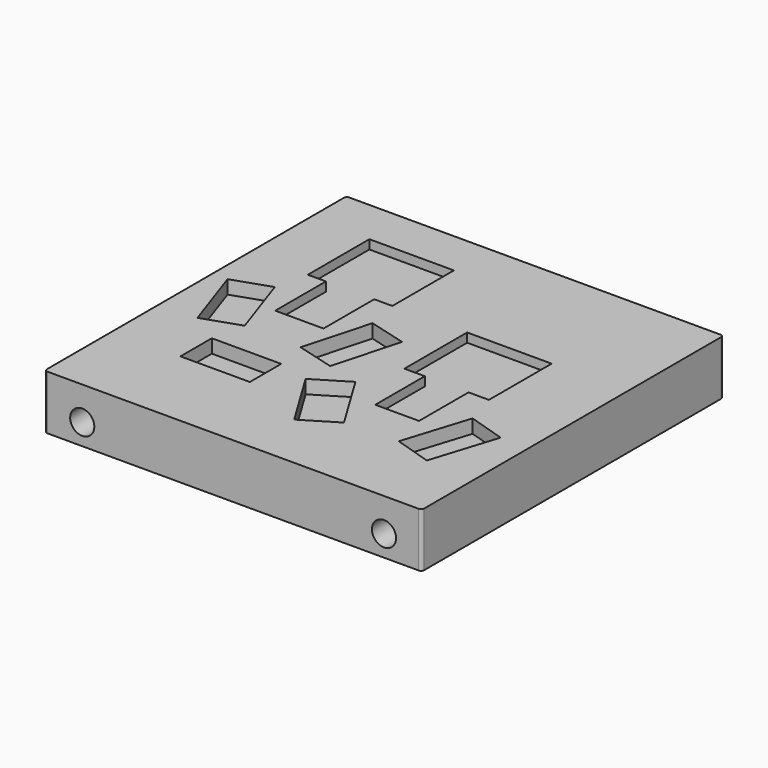
from build123d import *

# Parameters (mm, degrees)
F0_W      = 25
F0_H      = 25
F1_DEPTH  = 3.6
F3_DEPTH  = 0.6
F4_W      = 4.6
F4_H      = 2.6
F5_DEPTH  = 0.9
F6_R      = 1.6
F7_DEPTH  = 1.2
F8_R      = 0.2
F9_R      = 0.8
F10_DEPTH = 8


with BuildPart() as f1:
    # F0 (on Top) → F1 (new body)
    with BuildSketch(Plane.XY):
        Rectangle(F0_W, F0_H)
    extrude(amount=F1_DEPTH)

    # F2 (on face) → F3 (cut)
    with BuildSketch(Plane.XY.offset(3.6)):
        Polygon((-2.968572, 9.5), (-8.568572, 9.5), (-8.568572, 4.4), (-7.368572, 4.4), (-7.368572, 0.2), (-4.168572, 0.2), (-4.168572, 4.4), (-2.968572, 4.4), align=None)
        Polygon((7.511108, 4.5), (1.911108, 4.5), (1.911108, -0.7), (3.261108, -0.7), (3.261108, -4.8), (6.161108, -4.8), (6.161108, -0.7), (7.511108, -0.7), align=None)
    extrude(amount=-F3_DEPTH, mode=Mode.SUBTRACT)

    # F4 (on face) → F5 (cut)
    with BuildSketch(Plane.XY.offset(3.6)):
        Polygon((-7.552263, -2.098206), (-9.040832, 2.254283), (-11.500935, 1.412918), (-10.012366, -2.939571), align=None)
        Polygon((-0.058017, 1.566966), (-2.565525, 2.254283), (-3.781548, -2.182077), (-1.27404, -2.869394), align=None)
        Polygon((0.855684, -3.437364), (-1.366318, -4.78744), (1.02228, -8.718675), (3.244282, -7.368598), align=None)
        Polygon((10.624292, -3.622611), (8.143836, -2.843295), (6.765044, -7.231795), (9.245501, -8.011112), align=None)
        with Locations((-5.702388, -5.56096)):
            Rectangle(F4_W, F4_H)
    extrude(amount=-F5_DEPTH, mode=Mode.SUBTRACT)

    # F6 (on face) → F7 (cut)
    with BuildSketch(Plane(origin=(0, 0, 0), x_dir=(1, 0, 0), z_dir=(0, 0, -1))):
        with Locations((0, 7.5)):
            Circle(F6_R)
        Circle(F6_R)
        with Locations((0, -7.5)):
            Circle(F6_R)
        with Locations((-7.5, 0)):
            Circle(F6_R)
        with Locations((7.5, 0)):
            Circle(F6_R)
    extrude(amount=-F7_DEPTH, mode=Mode.SUBTRACT)

    # F8
    f8_edges = [f1.edges().sort_by_distance(p)[0] for p in [
        (-12.5, -12.5, 1.8),
        (12.5, -12.5, 1.8),
        (12.5, 12.5, 1.8),
        (-12.5, 12.5, 1.8),
    ]]
    fillet(f8_edges, radius=F8_R)

    # F9 (on face) → F10 (cut)
    with BuildSketch(Plane.XZ.offset(12.5)):
        with Locations((-10, 1.4)):
            Circle(F9_R)
        with Locations((10, 1.4)):
            Circle(F9_R)
    extrude(amount=-F10_DEPTH, mode=Mode.SUBTRACT)


solid = f1.part
